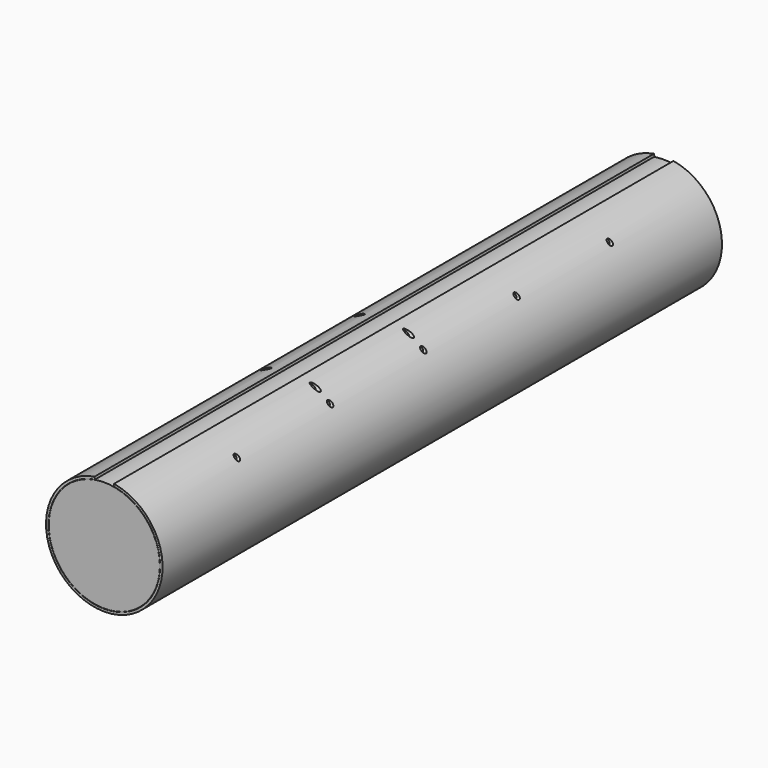
from build123d import *

# Parameters (mm, degrees)
F1_DEPTH      = 914.4
F2_R          = 6.35
F3_DEPTH      = 203.2
F3_DEPTH_BACK = 203.2
F4_R          = 6.35
F5_DEPTH      = 203.2
F5_DEPTH_BACK = 203.2
F6_R          = 145.415
F7_DEPTH      = 914.4


with BuildPart() as f1:
    # F0 (on Front) → F1 (new body, symmetric)
    with BuildSketch(Plane.XZ):
        with BuildLine():
            Line((-24.3416666667, 144.0072420536), (-25.4, 150.2684264907))
            ThreePointArc((-25.4, 150.2684264907), (0, -152.4), (25.4, 150.2684264907))
            Line((25.4, 150.2684264907), (24.3416666667, 144.0072420536))
            ThreePointArc((24.3416666667, 144.0072420536), (0, -146.05), (-24.3416666667, 144.0072420536))
        make_face()
    extrude(amount=F1_DEPTH, both=True)

    # F2 (on Right) → F3 (cut, two sides)
    with BuildSketch(Plane.YZ) as f3_sk:
        with Locations((0, 112.1684264907)):
            Circle(F2_R)
        with Locations((304.8, 112.1684264907)):
            Circle(F2_R)
        with Locations((609.6, 112.1684264907)):
            Circle(F2_R)
        with Locations((-304.8, 112.1684264907)):
            Circle(F2_R)
        with Locations((-609.6, 112.1684264907)):
            Circle(F2_R)
    extrude(amount=-F3_DEPTH, mode=Mode.SUBTRACT)
    extrude(f3_sk.sketch, amount=F3_DEPTH_BACK, mode=Mode.SUBTRACT)

    # F4 (on Right) → F5 (cut, two sides)
    with BuildSketch(Plane.YZ) as f5_sk:
        with Locations((0, 137.5684264907)):
            Circle(F4_R)
        with Locations((-304.8, 137.5684264907)):
            Circle(F4_R)
    extrude(amount=F5_DEPTH, mode=Mode.SUBTRACT)
    extrude(f5_sk.sketch, amount=-F5_DEPTH_BACK, mode=Mode.SUBTRACT)


with BuildPart() as f7:
    # F6 (on Front) → F7 (new body, symmetric)
    with BuildSketch(Plane.XZ):
        Circle(F6_R)
    extrude(amount=F7_DEPTH, both=True)


solid = Compound([f1.part, f7.part])
